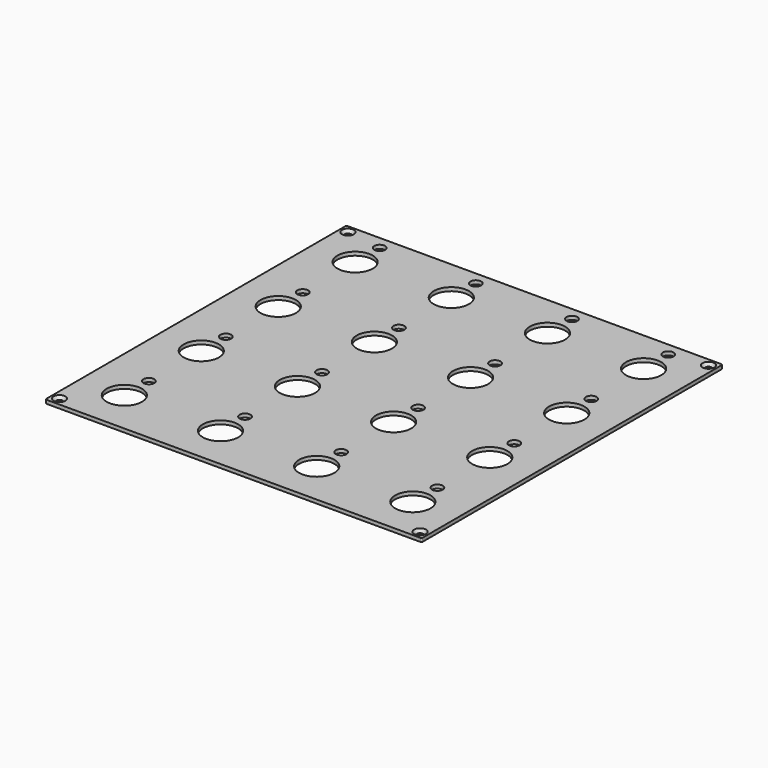
from build123d import *

# Parameters (mm, degrees)
PAD_DEPTH        = 1
POCKET_DEPTH     = 0.001
HOLE_D           = 1.75
HOLE_CSINK_D     = 3.3
HOLE_CSINK_ANGLE = 90
SKETCH005_R      = 4.9
HOLE003_DEPTH    = 1.001
SKETCH006_R      = 1.5
HOLE004_DEPTH    = 1.001


with BuildPart() as part:
    # Sketch → Pad (new body)
    with BuildSketch(Plane.XY):
        with BuildLine():
            Line((-51.8, 52.175), (51.8, 52.175))
            ThreePointArc((52.175, 51.8), (52.065165, 52.065165), (51.8, 52.175))
            Line((52.175, 51.8), (52.175, -51.8))
            ThreePointArc((51.8, -52.175), (52.065165, -52.065165), (52.175, -51.8))
            Line((51.8, -52.175), (-51.8, -52.175))
            ThreePointArc((-52.175, -51.8), (-52.065165, -52.065165), (-51.8, -52.175))
            Line((-52.175, -51.8), (-52.175, 51.8))
            ThreePointArc((-51.8, 52.175), (-52.065165, 52.065165), (-52.175, 51.8))
        make_face()
    extrude(amount=-PAD_DEPTH)

    # Sketch002 → Pocket (cut, through all)
    with BuildSketch(Plane.XY.offset(-4.8)):
        with BuildLine():
            Line((-45, 50.175), (45, 50.175))
            ThreePointArc((45, 50.175), (45.353553, 50.321447), (45.5, 50.675))
            ThreePointArc((45.5, 50.675), (45.353553, 51.028553), (45, 51.175))
            Line((-45, 51.175), (45, 51.175))
            ThreePointArc((-45, 51.175), (-45.353553, 51.028553), (-45.5, 50.675))
            ThreePointArc((-45.5, 50.675), (-45.353553, 50.321447), (-45, 50.175))
        make_face()
        with BuildLine():
            Line((-45, -51.175), (45, -51.175))
            ThreePointArc((45, -51.175), (45.353553, -51.028553), (45.5, -50.675))
            ThreePointArc((45.5, -50.675), (45.353553, -50.321447), (45, -50.175))
            Line((-45, -50.175), (45, -50.175))
            ThreePointArc((-45, -50.175), (-45.353553, -50.321447), (-45.5, -50.675))
            ThreePointArc((-45.5, -50.675), (-45.353553, -51.028553), (-45, -51.175))
        make_face()
        with BuildLine():
            Line((51.175, -45), (51.175, 45))
            ThreePointArc((51.175, 45), (51.028553, 45.353553), (50.675, 45.5))
            ThreePointArc((50.675, 45.5), (50.321447, 45.353553), (50.175, 45))
            Line((50.175, -45), (50.175, 45))
            ThreePointArc((50.175, -45), (50.321447, -45.353553), (50.675, -45.5))
            ThreePointArc((50.675, -45.5), (51.028553, -45.353553), (51.175, -45))
        make_face()
        with BuildLine():
            Line((-50.175, -45), (-50.175, 45))
            ThreePointArc((-50.175, 45), (-50.321447, 45.353553), (-50.675, 45.5))
            ThreePointArc((-50.675, 45.5), (-51.028553, 45.353553), (-51.175, 45))
            Line((-51.175, -45), (-51.175, 45))
            ThreePointArc((-51.175, -45), (-51.028553, -45.353553), (-50.675, -45.5))
            ThreePointArc((-50.675, -45.5), (-50.321447, -45.353553), (-50.175, -45))
        make_face()
    extrude(amount=-POCKET_DEPTH, mode=Mode.SUBTRACT)

    # Hole (through all)
    with Locations(Plane.XY):
        with Locations((-50, 50), (50, 50), (50, -50), (-50, -50)):
            CounterSinkHole(HOLE_D / 2, HOLE_CSINK_D / 2, counter_sink_angle=HOLE_CSINK_ANGLE)

    # Sketch005 → Hole003 (cut, through all)
    with BuildSketch(Plane.XY):
        with Locations((-40.005, 40.005)):
            Circle(SKETCH005_R)
        with Locations((-13.335, 40.005)):
            Circle(SKETCH005_R)
        with Locations((13.335, 40.005)):
            Circle(SKETCH005_R)
        with Locations((40.005, 40.005)):
            Circle(SKETCH005_R)
        with Locations((-40.005, 13.335)):
            Circle(SKETCH005_R)
        with Locations((-13.335, 13.335)):
            Circle(SKETCH005_R)
        with Locations((13.335, 13.335)):
            Circle(SKETCH005_R)
        with Locations((40.005, 13.335)):
            Circle(SKETCH005_R)
        with Locations((-40.005, -13.335)):
            Circle(SKETCH005_R)
        with Locations((-13.335, -13.335)):
            Circle(SKETCH005_R)
        with Locations((13.335, -13.335)):
            Circle(SKETCH005_R)
        with Locations((40.005, -13.335)):
            Circle(SKETCH005_R)
        with Locations((-40.005, -40.005)):
            Circle(SKETCH005_R)
        with Locations((-13.335, -40.005)):
            Circle(SKETCH005_R)
        with Locations((13.335, -40.005)):
            Circle(SKETCH005_R)
        with Locations((40.005, -40.005)):
            Circle(SKETCH005_R)
    extrude(amount=-HOLE003_DEPTH, mode=Mode.SUBTRACT)

    # Sketch006 → Hole004 (cut, through all)
    with BuildSketch(Plane.XY):
        with Locations((-40.005, 48.505)):
            Circle(SKETCH006_R)
        with Locations((-13.335, 48.505)):
            Circle(SKETCH006_R)
        with Locations((13.335, 48.505)):
            Circle(SKETCH006_R)
        with Locations((40.005, 48.505)):
            Circle(SKETCH006_R)
        with Locations((-40.005, 21.835)):
            Circle(SKETCH006_R)
        with Locations((-13.335, 21.835)):
            Circle(SKETCH006_R)
        with Locations((13.335, 21.835)):
            Circle(SKETCH006_R)
        with Locations((40.005, 21.835)):
            Circle(SKETCH006_R)
        with Locations((-40.005, -4.835)):
            Circle(SKETCH006_R)
        with Locations((-13.335, -4.835)):
            Circle(SKETCH006_R)
        with Locations((13.335, -4.835)):
            Circle(SKETCH006_R)
        with Locations((40.005, -4.835)):
            Circle(SKETCH006_R)
        with Locations((-40.005, -31.505)):
            Circle(SKETCH006_R)
        with Locations((-13.335, -31.505)):
            Circle(SKETCH006_R)
        with Locations((13.335, -31.505)):
            Circle(SKETCH006_R)
        with Locations((40.005, -31.505)):
            Circle(SKETCH006_R)
    extrude(amount=-HOLE004_DEPTH, mode=Mode.SUBTRACT)


solid = part.part
